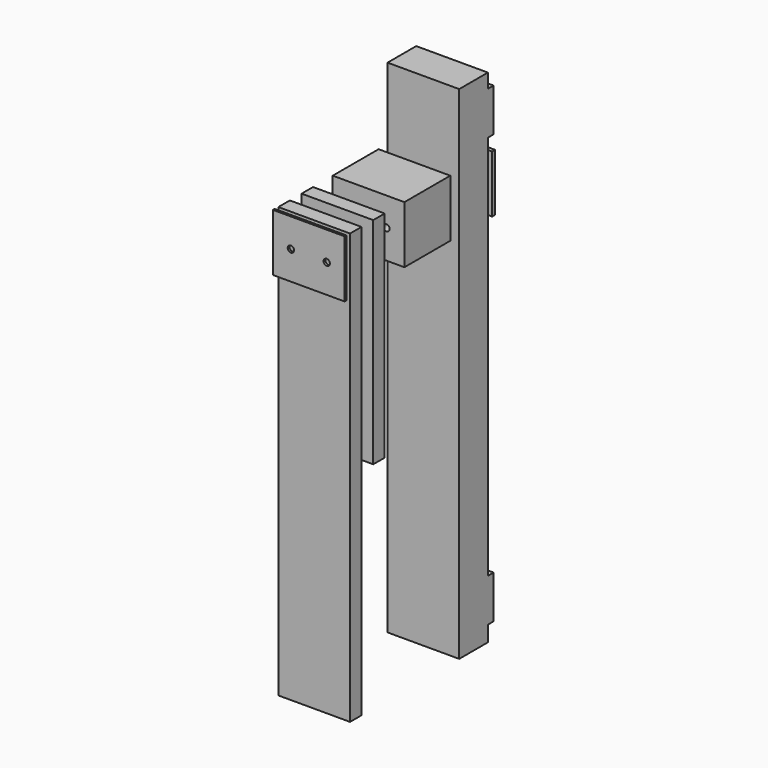
from build123d import *

# Parameters (mm, degrees)
F0_W       = 100
F0_H       = 80
F1_DEPTH   = 3
F2_W       = 20
F2_H       = 600
F3_DEPTH   = 50
F2_W_2     = 80
F2_H_2     = 80
F2_W_3     = 50
F2_H_3     = 700
F2_W_4     = 5
F2_H_4     = 300
F4_D       = 8.8
F4_DEPTH   = 259.3560133705
F4_2_D     = 8.8
F4_2_DEPTH = 259.3560133705
F4_3_D     = 8.8
F4_3_DEPTH = 259.3560133705
F4_4_D     = 8.8
F4_4_DEPTH = 259.3560133705
F4_5_D     = 8.8
F4_5_DEPTH = 259.3560133705
F5_D       = 8.8
F6_W       = 10
F6_H       = 380.3535103798
F6_W_2     = 100
F6_H_2     = 60
F7_DEPTH   = 10


with BuildPart() as f1:
    # F0 (on Front) → F1 (new body)
    with BuildSketch(Plane.XZ):
        Rectangle(F0_W, F0_H)
    extrude(amount=F1_DEPTH)

    # F5 (through all)
    with Locations(Plane(origin=(0, 0, 0), x_dir=(1, 0, 0), z_dir=(0, 1, 0))):
        with Locations((-25, 0), (25, 0)):
            Hole(F5_D / 2)


with BuildPart() as f3:
    # F2 (on Right) → F3 (new body, symmetric)
    with BuildSketch(Plane.YZ):
        with Locations((16.4218770899, -260.329894186)):
            Rectangle(F2_W, F2_H)
    extrude(amount=F3_DEPTH, both=True)

    # F4 (through all, one way)
    with BuildSketch(Plane.XZ):
        with Locations((-25, 0), (25, 0)):
            Circle(F4_D / 2)
    extrude(amount=-F4_DEPTH, mode=Mode.SUBTRACT)


with BuildPart() as f3b:
    # F2 (on Right) → F3, piece 2 (new body, symmetric)
    with BuildSketch(Plane.YZ):
        with Locations((141.2636143714, -0.329894186)):
            Rectangle(F2_W_2, F2_H_2)
    extrude(amount=F3_DEPTH, both=True)

    # F4#2 (through all, one way)
    with BuildSketch(Plane.XZ):
        with Locations((-25, 0), (25, 0)):
            Circle(F4_2_D / 2)
    extrude(amount=-F4_2_DEPTH, mode=Mode.SUBTRACT)


with BuildPart() as f3c:
    # F2 (on Right) → F3, piece 3 (new body, symmetric)
    with BuildSketch(Plane.YZ):
        with Locations((221.8606114388, -210.329894186)):
            Rectangle(F2_W_3, F2_H_3)
    extrude(amount=F3_DEPTH, both=True)

    # F4#3 (through all, one way)
    with BuildSketch(Plane.XZ):
        with Locations((-25, 0), (25, 0)):
            Circle(F4_3_D / 2)
    extrude(amount=-F4_3_DEPTH, mode=Mode.SUBTRACT)

    # F6 (on face) → F7 (join)
    with BuildSketch(Plane(origin=(0, 246.8606114388, 0), x_dir=(-1, 0, 0), z_dir=(0, 1, 0))):
        with Locations((33.4200662374, -255.9455633163)):
            Rectangle(F6_W, F6_H)
        with Locations((-33.4200662374, -255.9455633163)):
            Rectangle(F6_W, F6_H)
        with Locations((0, 89.686884284)):
            Rectangle(F6_W_2, F6_H_2)
        with Locations((0, -508.6336445808)):
            Rectangle(F6_W_2, F6_H_2)
    extrude(amount=F7_DEPTH)


with BuildPart() as f3d:
    # F2 (on Right) → F3, piece 4 (new body, symmetric)
    with BuildSketch(Plane.YZ):
        with Locations((256.8550133705, -0.329894186)):
            Rectangle(F2_W_4, F2_H_2)
    extrude(amount=F3_DEPTH, both=True)

    # F4#4 (through all, one way)
    with BuildSketch(Plane.XZ):
        with Locations((-25, 0), (25, 0)):
            Circle(F4_4_D / 2)
    extrude(amount=-F4_4_DEPTH, mode=Mode.SUBTRACT)


with BuildPart() as f3e:
    # F2 (on Right) → F3, piece 5 (new body, symmetric)
    with BuildSketch(Plane.YZ):
        with Locations((56.9222590327, -110.329894186)):
            Rectangle(F2_W, F2_H_4)
    extrude(amount=F3_DEPTH, both=True)

    # F4#5 (through all, one way)
    with BuildSketch(Plane.XZ):
        with Locations((-25, 0), (25, 0)):
            Circle(F4_5_D / 2)
    extrude(amount=-F4_5_DEPTH, mode=Mode.SUBTRACT)


solid = Compound([f1.part, f3.part, f3b.part, f3c.part, f3d.part, f3e.part])
